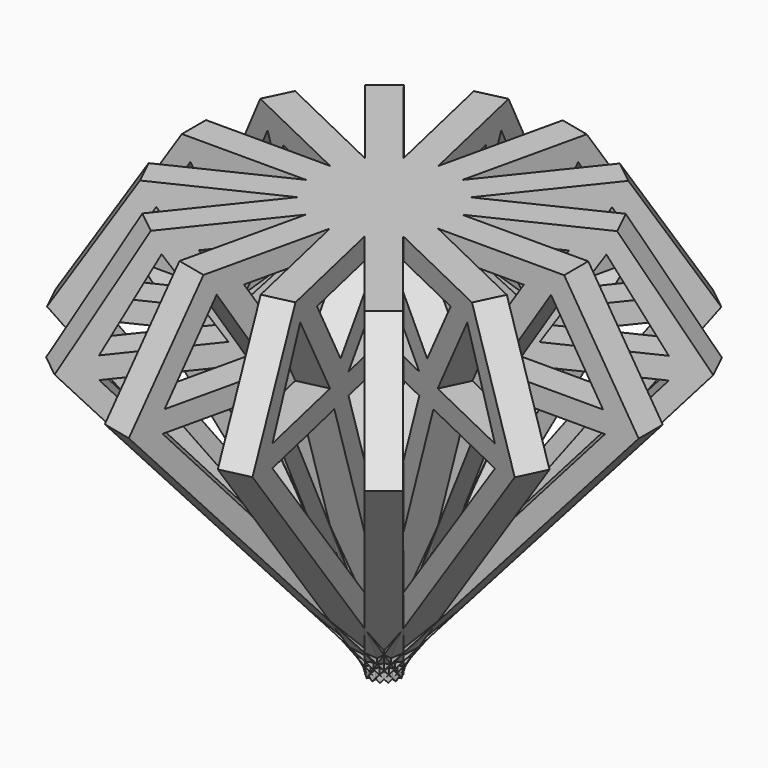
from build123d import *

# Parameters (mm, degrees)
F1_DEPTH = 1.5875
F3_COUNT = 7


with BuildPart() as f1:
    # F0 (on Front) → F1 (new body, symmetric)
    with BuildSketch(Plane.XZ):
        Polygon((20.2450232269, 51.8417134881), (-20.0369786471, 51.8417134881), (-28.1573385, 39.4356101751), (0, 7.5715463609), (28.0942395329, 39.238397032), align=None)
        Polygon((-24.4020055979, 38.4928621352), (-12.6883210614, 38.4928621352), (-2.8413387481, 14.1255464405), align=None, mode=Mode.SUBTRACT)
        Polygon((0, 13.8111067936), (-10.0099807605, 38.4928621352), (10.1583739743, 38.4928621352), align=None, mode=Mode.SUBTRACT)
        Polygon((2.8030117974, 13.8111067936), (12.6044759527, 38.4928621352), (24.5413389057, 38.4928621352), align=None, mode=Mode.SUBTRACT)
        Polygon((-24.4020055979, 40.7890044153), (-19.1347170621, 49.570646137), (-13.4955793619, 40.7890044153), align=None, mode=Mode.SUBTRACT)
        Polygon((-3.6589819669, 49.570646137), (-11.5081733093, 42.6255315542), (-15.9768015146, 49.570646137), align=None, mode=Mode.SUBTRACT)
        Polygon((-10.0099807605, 40.713623761), (0, 49.570646137), (10.1583739743, 40.713623761), align=None, mode=Mode.SUBTRACT)
        Polygon((11.3782472908, 42.4393229187), (3.5511818714, 49.570646137), (15.9875191748, 49.570646137), align=None, mode=Mode.SUBTRACT)
        Polygon((13.2065527141, 40.713623761), (18.8594330102, 49.570646137), (24.3383795023, 40.713623761), align=None, mode=Mode.SUBTRACT)
    extrude(amount=F1_DEPTH, both=True)

    # F3: F1 ×7 about axis
    f3_axis = Axis((0, 0, -11.8698459119), (0, 0, -1))


with BuildPart() as f1_1:
    add(f1.part)
    for i in range(1, F3_COUNT):
        add(f1.part.rotate(f3_axis, i * 360 / F3_COUNT))


solid = f1_1.part
